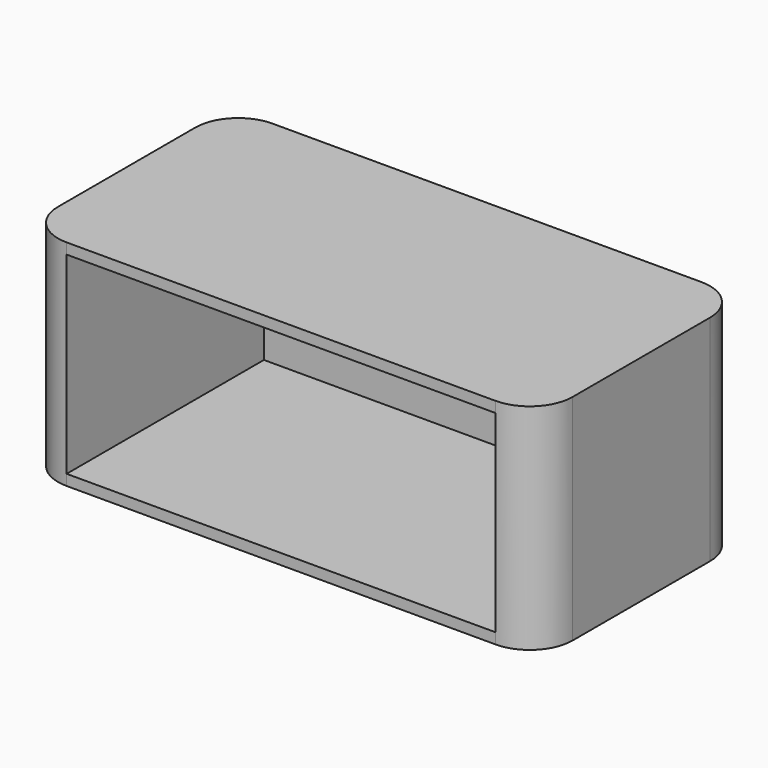
from build123d import *

# Parameters (mm, degrees)
F1_DEPTH = 254
F2_W     = 508
F2_H     = 228.6
F3_DEPTH = 292.1


with BuildPart() as f1:
    # F0 (on Top) → F1 (new body)
    with BuildSketch(Plane.XY):
        with BuildLine():
            ThreePointArc((-304.8, -101.6), (-289.921024, -137.521024), (-254, -152.4))
            Line((-254, -152.4), (254, -152.4))
            ThreePointArc((254, -152.4), (289.921024, -137.521024), (304.8, -101.6))
            Line((304.8, -101.6), (304.8, 101.6))
            ThreePointArc((304.8, 101.6), (289.921024, 137.521024), (254, 152.4))
            Line((254, 152.4), (-254, 152.4))
            ThreePointArc((-254, 152.4), (-289.921024, 137.521024), (-304.8, 101.6))
            Line((-304.8, 101.6), (-304.8, -101.6))
        make_face()
    extrude(amount=F1_DEPTH)

    # F2 (on face) → F3 (cut)
    with BuildSketch(Plane.XZ.offset(152.4)):
        with Locations((0, 127)):
            Rectangle(F2_W, F2_H)
    extrude(amount=-F3_DEPTH, mode=Mode.SUBTRACT)


solid = f1.part
